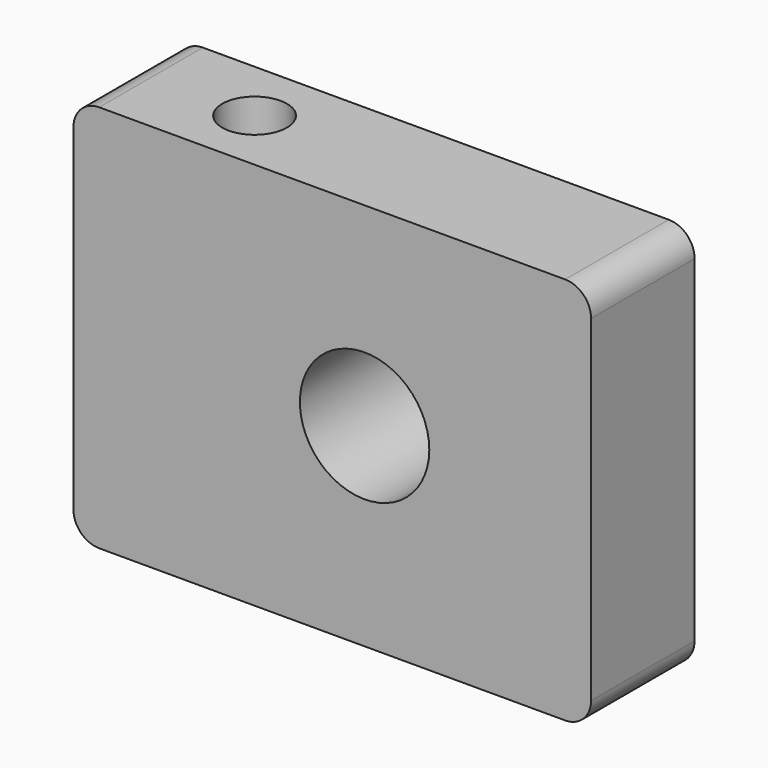
from build123d import *

# Parameters (mm, degrees)
F0_W     = 101.6
F0_H     = 76.2
F0_R     = 12.7
F1_DEPTH = 12.7
F2_R     = 6.35
F3_DEPTH = 76.201
F4_R     = 5.08


with BuildPart() as f1:
    # F0 (on Front) → F1 (new body, symmetric)
    with BuildSketch(Plane.XZ):
        Rectangle(F0_W, F0_H)
        with Locations((6.35, 0)):
            Circle(F0_R, mode=Mode.SUBTRACT)
    extrude(amount=F1_DEPTH, both=True)

    # F2 (on face) → F3 (cut, through all)
    with BuildSketch(Plane.XY.offset(38.1)):
        with Locations((-25.4, 0)):
            Circle(F2_R)
    extrude(amount=-F3_DEPTH, mode=Mode.SUBTRACT)

    # F4
    f4_edges = [f1.edges().sort_by_distance(p)[0] for p in [
        (50.8, 0, 38.1),
        (-50.8, 0, 38.1),
        (50.8, 0, -38.1),
        (-50.8, 0, -38.1),
    ]]
    fillet(f4_edges, radius=F4_R)


solid = f1.part
